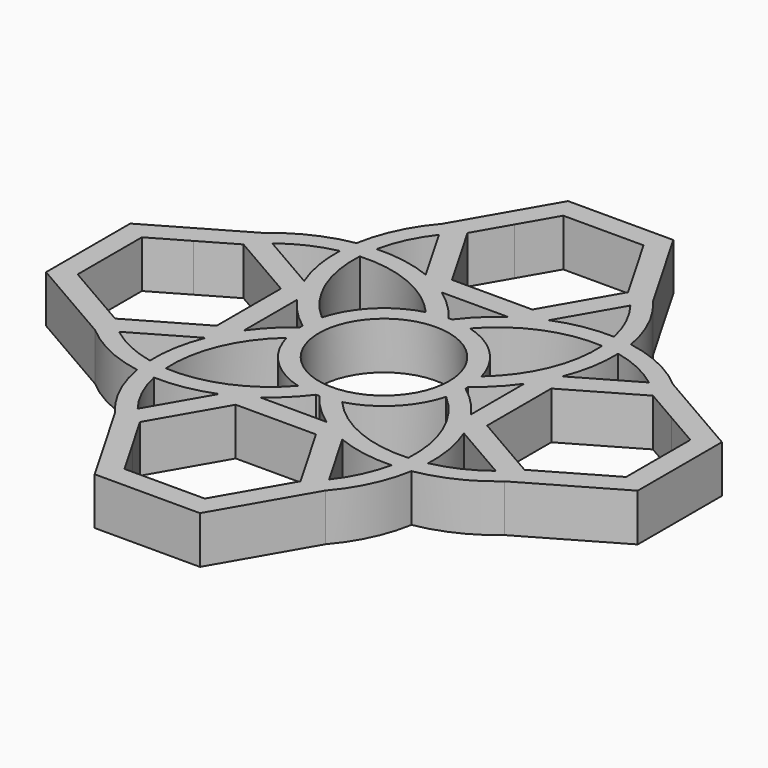
from build123d import *

# Parameters (mm, degrees)
F0_R     = 11
F1_DEPTH = 4
F2_COUNT = 4


with BuildPart() as f1:
    # F0 (on Top) → F1 (new body, symmetric)
    with BuildSketch(Plane.XY):
        with BuildLine():
            ThreePointArc((-17.7828708233, 34.5995821148), (-23.3825877712, 16.6188629138), (-13.9969587461, 0.291797633))
            ThreePointArc((-13.9969587461, 0.291797633), (0, -14), (13.9969587461, 0.291797633))
            ThreePointArc((13.9969587461, 0.291797633), (23.3825877712, 16.6188629138), (17.7828708233, 34.5995821148))
            Line((17.7828708233, 34.5995821148), (8.8914354117, 50))
            Line((8.8914354117, 50), (-8.8914354117, 50))
            Line((-8.8914354117, 50), (-17.7828708233, 34.5995821148))
        make_face()
        Circle(F0_R, mode=Mode.SUBTRACT)
        with BuildLine():
            Line((8.8914354117, 19.1991642296), (16.1812389964, 31.8254744156))
            ThreePointArc((16.1812389964, 31.8254744156), (20.4311974682, 17.2440748743), (13.4930582959, 3.7332797675))
            ThreePointArc((13.4930582959, 3.7332797675), (0, 14), (-13.4930582959, 3.7332797675))
            ThreePointArc((-13.4930582959, 3.7332797675), (-20.4311974682, 17.2440748743), (-16.1812389964, 31.8254744156))
            Line((-16.1812389964, 31.8254744156), (-8.8914354117, 19.1991642296))
            Line((-8.8914354117, 19.1991642296), (8.8914354117, 19.1991642296))
        make_face(mode=Mode.SUBTRACT)
        Polygon((10.2282444271, 40.3837430948), (13.567731326, 34.5995821148), (6.783865663, 22.8495821148), (-6.783865663, 22.8495821148), (-13.567731326, 34.5995821148), (-10.2282444271, 40.3837430948), (-6.783865663, 46.3495821148), (6.783865663, 46.3495821148), align=None, mode=Mode.SUBTRACT)
    extrude(amount=F1_DEPTH, both=True)

    # F2: F1 ×4 about axis
    f2_axis = Axis((0, 0, 4), (0, 0, 1))


with BuildPart() as f1_1:
    add(f1.part)
    for i in range(1, F2_COUNT):
        add(f1.part.rotate(f2_axis, i * 360 / F2_COUNT))


solid = f1_1.part
